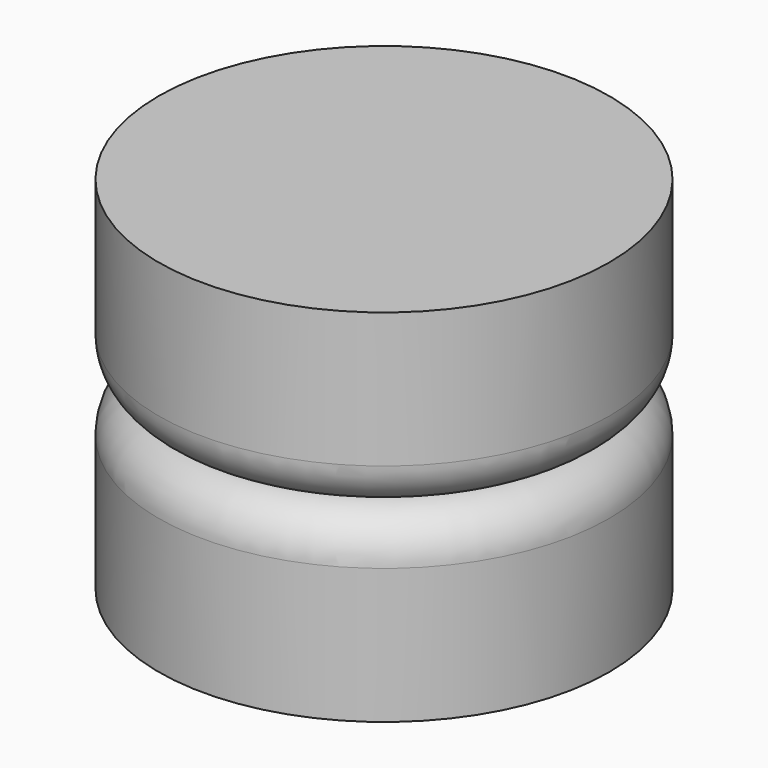
from build123d import *

# Parameters (mm, degrees)
F0_R     = 25
F1_DEPTH = 10
F2_R     = 5


with BuildPart() as f1:
    # F0 (on Top) → F1 (new body, symmetric)
    with BuildSketch(Plane.XY):
        Circle(F0_R)
    extrude(amount=F1_DEPTH, both=True)

    # F2
    f2_edges = [f1.edges().sort_by_distance(p)[0] for p in [
        (-25, 0, 10),
    ]]
    fillet(f2_edges, radius=F2_R)

    # F3: F1 across face


with BuildPart() as f1_1:
    add(f1.part)
    add(f1.part.mirror(Plane.XY.offset(10)))


solid = f1_1.part
